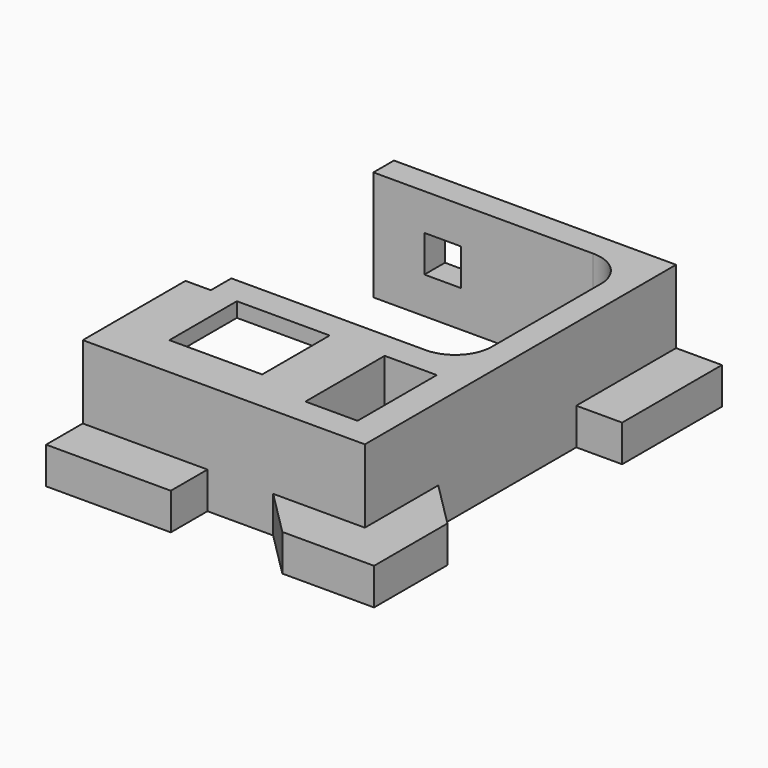
from build123d import *

# Parameters (mm, degrees)
PAD_DEPTH       = 30
POCKET_DEPTH    = 22
POCKET001_DEPTH = 6.9
SKETCH003_W     = 25.3
SKETCH003_H     = 23
SKETCH003_W_2   = 14.2
SKETCH003_H_2   = 27
POCKET002_DEPTH = 30
SKETCH004_W     = 10
SKETCH004_H     = 10
POCKET003_DEPTH = 50
POCKET004_DEPTH = 20


with BuildPart() as part:
    # Sketch → Pad (new body)
    with BuildSketch(Plane.XY):
        with BuildLine():
            Line((-35, 44.027333), (-35, 37.027333))
            Line((-35, 37.027333), (24.9, 37.027333))
            ThreePointArc((34.9, 26.230332), (32.268481, 33.822479), (24.9, 37.027333))
            Line((34.9, -9.769668), (34.9, 26.230332))
            ThreePointArc((24.9, -20), (32.053765, -16.990108), (34.9, -9.769668))
            Line((24.9, -20), (-28.1, -20))
            Line((-28.1, -27), (-28.1, -20))
            Line((-35, -27), (-28.1, -27))
            Line((-35, -27), (-35, -62))
            Line((-35, -62), (-35, -74.5))
            Line((-35, -74.5), (-1, -74.5))
            Line((-1, -74.5), (-1, -62))
            Line((-1, -62), (16.9, -62))
            Line((16.9, -62), (29.4, -74.5))
            Line((29.4, -74.5), (54.4, -74.5))
            Line((54.4, -74.5), (54.4, -49.5))
            Line((54.4, -49.5), (41.9, -37))
            Line((41.9, 10.027333), (41.9, -37))
            Line((54.4, 10.027333), (41.9, 10.027333))
            Line((54.4, 44.027333), (54.4, 10.027333))
            Line((41.9, 44.027333), (54.4, 44.027333))
            Line((41.9, 44.027333), (-35, 44.027333))
        make_face()
    extrude(amount=PAD_DEPTH)

    # Sketch001 → Pocket (cut)
    with BuildSketch(Plane.XY.offset(4)):
        Polygon((-28.1, -20), (-28.1, -58.5), (12.2, -58.5), (12.2, -20), (-18.1, -20), (-18.1, -13.5), (-24.1, -13.5), (-24.1, -20), align=None)
    extrude(amount=POCKET_DEPTH, mode=Mode.SUBTRACT)

    # Sketch002 → Pocket001 (cut)
    with BuildSketch(Plane.YZ.offset(-35)):
        Polygon((-27, 26.185834), (-27, 14.185834), (-37, 14.185834), (-47, 4), (-57, 4), (-57, 26.185834), align=None)
    extrude(amount=POCKET001_DEPTH, mode=Mode.SUBTRACT)

    # Sketch003 → Pocket002 (cut)
    with BuildSketch(Plane.XY):
        with Locations((-7.95, -39)):
            Rectangle(SKETCH003_W, SKETCH003_H)
        with Locations((26.8, -41)):
            Rectangle(SKETCH003_W_2, SKETCH003_H_2)
    extrude(amount=POCKET002_DEPTH, mode=Mode.SUBTRACT)

    # Sketch004 → Pocket003 (cut)
    with BuildSketch(Plane.XZ):
        with Locations((-16.1, 15)):
            Rectangle(SKETCH004_W, SKETCH004_H)
    extrude(amount=-POCKET003_DEPTH, mode=Mode.SUBTRACT)

    # Sketch005 → Pocket004 (cut)
    with BuildSketch(Plane.XY.offset(10)):
        Polygon((54.4, -61.416298), (54.4, -74.5), (-35, -74.5), (-35, -62), (41.9, -62), (41.9, 44.9), (54.4, 44.9), align=None)
    extrude(amount=POCKET004_DEPTH, mode=Mode.SUBTRACT)


solid = part.part
